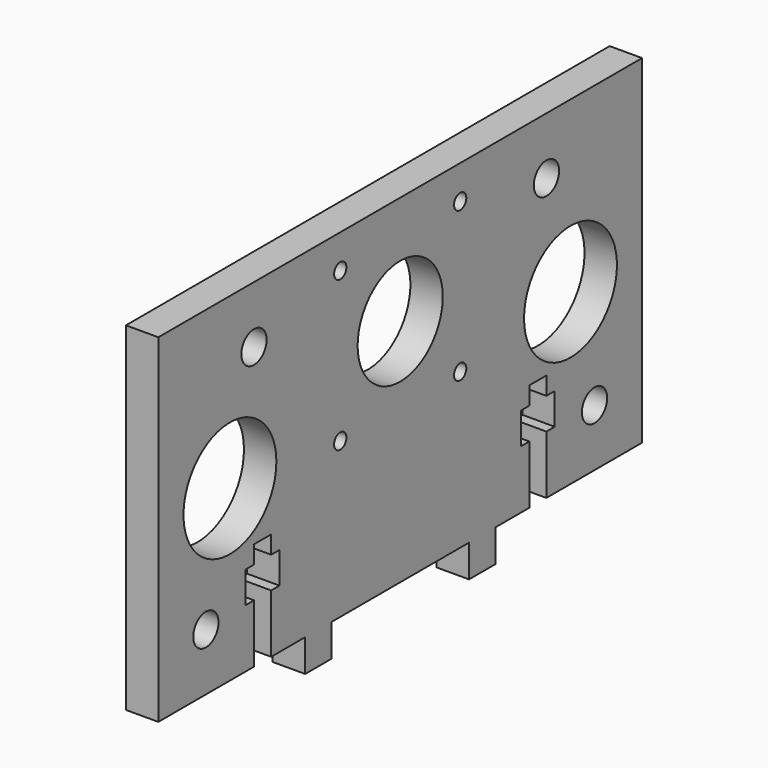
from build123d import *

# Parameters (mm, degrees)
SKETCH001_W                      = 6.7
SKETCH001_H                      = 125
PAD004_DEPTH                     = 70
SKETCH001002002010004010_R       = 12
SKETCH001002002010004010_R_2     = 11
SKETCH001002002010004010_R_3     = 3.264
SKETCH001002002010004010_R_4     = 1.5875
POCKET008_DEPTH                  = 293.545139
POCKET009_DEPTH                  = 293.545139
SKETCH001002002010004011001005_W = 6.7
SKETCH001002002010004011001005_H = 6.7818
PAD005_DEPTH                     = 6.7


with BuildPart() as part:
    # Sketch001 → Pad004 (new body)
    with BuildSketch(Plane.XY.offset(3.35)):
        with Locations((4.7, 0)):
            Rectangle(SKETCH001_W, SKETCH001_H)
    extrude(amount=PAD004_DEPTH)

    # Sketch001002002010004010 → Pocket008 (cut, through all)
    with BuildSketch(Plane(origin=(1.35, 0, 3.35), x_dir=(0, -1, 0), z_dir=(-1, 0, 0))):
        with Locations((-44, 35)):
            Circle(SKETCH001002002010004010_R)
        with Locations((0, 47.514)):
            Circle(SKETCH001002002010004010_R_2)
        with Locations((-37.788344, 58.18222)):
            Circle(SKETCH001002002010004010_R_3)
        with Locations((-50.211656, 11.81778)):
            Circle(SKETCH001002002010004010_R_3)
        with Locations((-15.494, 63.008)):
            Circle(SKETCH001002002010004010_R_4)
        with Locations((-15.494, 32.02)):
            Circle(SKETCH001002002010004010_R_4)
    pocket008 = extrude(amount=-POCKET008_DEPTH, mode=Mode.SUBTRACT)

    # Mirrored: Pocket008 across Sketch001002002010004010 V_Axis
    add(pocket008.mirror(Plane(origin=(1.35, 0, 3.35), x_dir=(-1, 0, 0), z_dir=(0, -1, 0))), mode=Mode.SUBTRACT)

    # Sketch001002002010004011001004 → Pocket009 (cut, through all)
    with BuildSketch(Plane(origin=(1.35, 0, 3.35), x_dir=(0, -1, 0), z_dir=(-1, 0, 0))):
        Polygon((-37.77, -1e-06), (-37.770004, 12.079999), (-39.925004, 12.079998), (-39.925006, 18.579998), (-37.770006, 18.579999), (-37.770007, 22.279999), (-33.350007, 22.28), (-33.350006, 18.58), (-31.195006, 18.580001), (-31.195004, 12.080001), (-33.350004, 12.08), (-33.35, 0), (-35.56, -1e-06), align=None)
    pocket009 = extrude(amount=-POCKET009_DEPTH, mode=Mode.SUBTRACT)

    # Mirrored001: Pocket009 across Sketch001002002010004011001004 V_Axis
    add(pocket009.mirror(Plane(origin=(1.35, 0, 3.35), x_dir=(-1, 0, 0), z_dir=(0, -1, 0))), mode=Mode.SUBTRACT)

    # Sketch001002002010004011001005 → Pad005 (new body)
    with BuildSketch(Plane(origin=(0, 0, 3.35), x_dir=(1, 0, 0), z_dir=(0, 0, -1))):
        with Locations((4.7, 21.1709)):
            Rectangle(SKETCH001002002010004011001005_W, SKETCH001002002010004011001005_H)
    pad005 = extrude(amount=PAD005_DEPTH)

    # Mirrored002: Pad005 across Sketch001002002010004011001005 H_Axis
    add(pad005.mirror(Plane(origin=(0, 0, 3.35), x_dir=(0, 0, -1), z_dir=(0, -1, 0))))


solid = part.part
